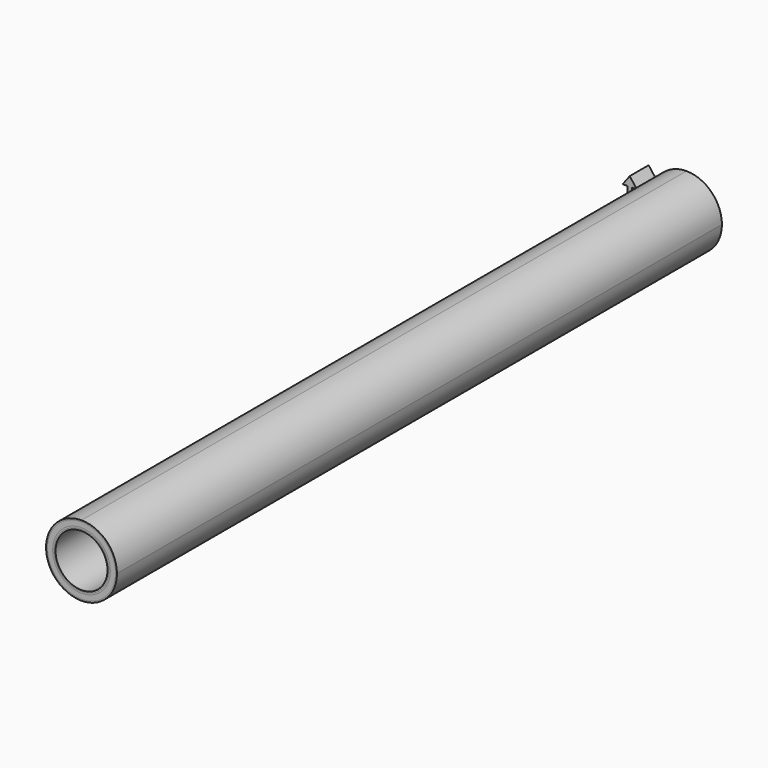
from build123d import *

# Parameters (mm, degrees)
F0_R     = 29
F0_R_2   = 27.5
F1_DEPTH = 800
F0_R_3   = 30.5
F2_DEPTH = 800
F0_R_4   = 36
F3_DEPTH = 800
F4_DEPTH = 800
F6_DEPTH = 25
F8_DEPTH = 25


with BuildPart() as f1:
    # F0 (on Front) → F1 (new body)
    with BuildSketch(Plane.XZ):
        Circle(F0_R)
        Circle(F0_R_2, mode=Mode.SUBTRACT)
    extrude(amount=F1_DEPTH)


with BuildPart() as f2:
    # F0 (on Front) → F2 (new body, through all)
    with BuildSketch(Plane.XZ):
        Circle(F0_R_3)
        Circle(F0_R, mode=Mode.SUBTRACT)
    extrude(amount=F2_DEPTH)


with BuildPart() as f3:
    # F0 (on Front) → F3 (new body, through all)
    with BuildSketch(Plane.XZ):
        Circle(F0_R_4)
        Circle(F0_R_3, mode=Mode.SUBTRACT)
    extrude(amount=F3_DEPTH)


with BuildPart() as f4:
    # F0 (on Front) → F4 (new body, through all)
    with BuildSketch(Plane.XZ):
        with BuildLine():
            ThreePointArc((0, 37.5), (-26.516504, -26.516504), (37.5, 0))
            ThreePointArc((37.5, 0), (26.516504, 26.516504), (0, 37.5))
        make_face()
        Circle(F0_R_4, mode=Mode.SUBTRACT)
    extrude(amount=F4_DEPTH)


with BuildPart() as f6:
    # F5 (on Front) → F6 (new body)
    with BuildSketch(Plane.XZ):
        with BuildLine():
            Line((9.998477, 0.174524), (14.997715, 0.261786))
            ThreePointArc((14.997715, 0.261786), (-0.261786, 14.997715), (-14.997715, -0.261786))
            Line((-14.997715, -0.261786), (-17.497335, -0.305417))
            Line((-17.497335, -0.305417), (-12.375929, -7.217089))
            Line((-12.375929, -7.217089), (-7.498858, -0.130893))
            Line((-7.498858, -0.130893), (-9.998477, -0.174524))
            ThreePointArc((-9.998477, -0.174524), (-0.174524, 9.998477), (9.998477, 0.174524))
        make_face()
    extrude(amount=F6_DEPTH)


with BuildPart() as f8:
    # F7 (on Front) → F8 (new body)
    with BuildSketch(Plane.XZ):
        Polygon((-37.5, 0), (-37.5, 20), (-32.5, 20), (-40, 30), (-47.5, 20), (-42.5, 20), (-42.5, 0), align=None)
    extrude(amount=F8_DEPTH)


solid = Compound([f1.part, f2.part, f3.part, f4.part, f6.part, f8.part])
